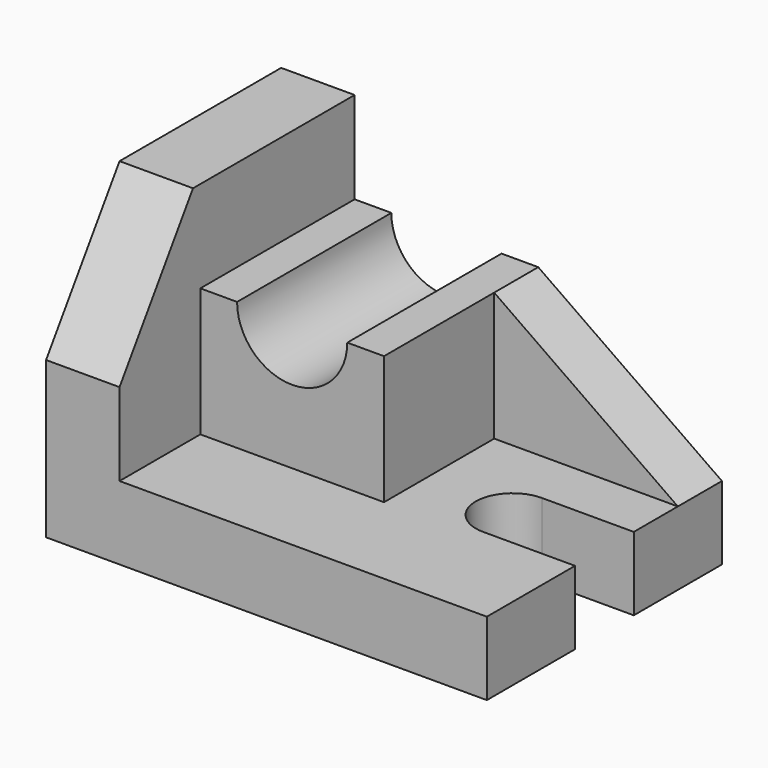
from build123d import *

# Parameters (mm, degrees)
F1_DEPTH = 16
F3_DEPTH = 16
F5_DEPTH = 42
F7_DEPTH = 12


with BuildPart() as f1:
    # F0 (on Top) → F1 (new body)
    with BuildSketch(Plane.XY):
        with BuildLine():
            Line((-48, 32), (-48, -32))
            Line((-48, -32), (48, -32))
            Line((48, -32), (48, -8))
            Line((48, -8), (28, -8))
            ThreePointArc((28, -8), (20, 0), (28, 8))
            Line((28, 8), (48, 8))
            Line((48, 8), (48, 32))
            Line((48, 32), (-48, 32))
        make_face()
    extrude(amount=F1_DEPTH)

    # F2 (on face) → F3 (join)
    with BuildSketch(Plane(origin=(-48, 0, 0), x_dir=(0, -1, 0), z_dir=(-1, 0, 0))):
        Polygon((-32, 64), (-32, 16), (32, 16), (32, 34), (12, 64), align=None)
    extrude(amount=-F3_DEPTH)

    # F4 (on face) → F5 (join)
    with BuildSketch(Plane(origin=(0, 32, 0), x_dir=(-1, 0, 0), z_dir=(0, 1, 0))):
        with BuildLine():
            Line((-8, 16), (32, 16))
            Line((32, 16), (32, 44))
            Line((32, 44), (24, 44))
            ThreePointArc((24, 44), (12, 32), (0, 44))
            Line((0, 44), (-8, 44))
            Line((-8, 44), (-8, 16))
        make_face()
    extrude(amount=-F5_DEPTH)

    # F6 (on face) → F7 (join)
    with BuildSketch(Plane(origin=(0, 32, 0), x_dir=(-1, 0, 0), z_dir=(0, 1, 0))):
        Polygon((-8, 44), (-48, 16), (-8, 16), align=None)
    extrude(amount=-F7_DEPTH)


solid = f1.part
